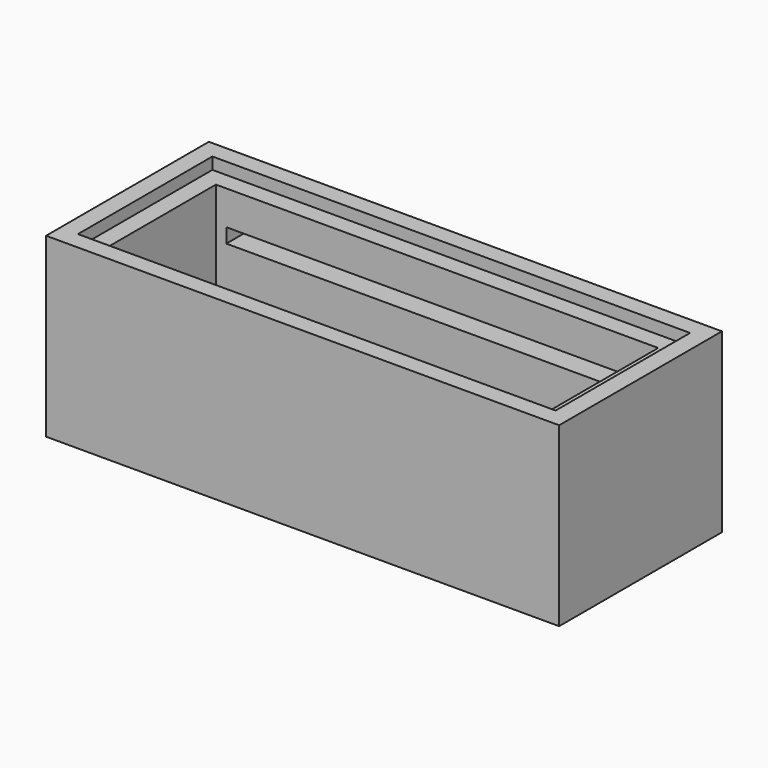
from build123d import *

# Parameters (mm, degrees)
PAD_DEPTH       = 60
PAD001_DEPTH    = 60
PAD004_DEPTH    = 60
PAD006_DEPTH    = 60
SKETCH008_W     = 162
SKETCH008_H     = 57
POCKET_DEPTH    = 4
SKETCH011_W     = 141.774313
SKETCH011_H     = 4.907572
POCKET001_DEPTH = 12


with BuildPart() as part:
    # Sketch → Pad (new body)
    with BuildSketch(Plane.XY):
        Polygon((162, -12), (150, 0), (0, 0), (-12, -12), align=None)
    extrude(amount=PAD_DEPTH)

    # Sketch001 → Pad001 (join)
    with BuildSketch(Plane.XY):
        Polygon((0, 45), (0, 0), (-12, -12), (-12, 57), align=None)
    extrude(amount=PAD001_DEPTH)

    # Sketch004 → Pad004 (join)
    with BuildSketch(Plane.XY):
        Polygon((150, 0), (162, -12), (162, 57), (150, 45), align=None)
    extrude(amount=PAD004_DEPTH)

    # Sketch007 → Pad006 (join)
    with BuildSketch(Plane.XY):
        Polygon((-12, 57), (162, 57), (150, 45), (0, 45), align=None)
    extrude(amount=PAD006_DEPTH)

    # Sketch008 (on Face13 of Pad006) → Pocket (cut)
    with BuildSketch(Plane.XY.offset(60)):
        with Locations((75, 22.5)):
            Rectangle(SKETCH008_W, SKETCH008_H)
    extrude(amount=-POCKET_DEPTH, mode=Mode.SUBTRACT)

    # Sketch011 (on Face6 of Pad006) → Pocket001 (cut)
    with BuildSketch(Plane(origin=(0, 57, 0), x_dir=(-1, 0, 0), z_dir=(0, 1, 0))):
        with Locations((-74.422004, 41.981674)):
            Rectangle(SKETCH011_W, SKETCH011_H)
    extrude(amount=-POCKET001_DEPTH, mode=Mode.SUBTRACT)


solid = part.part
